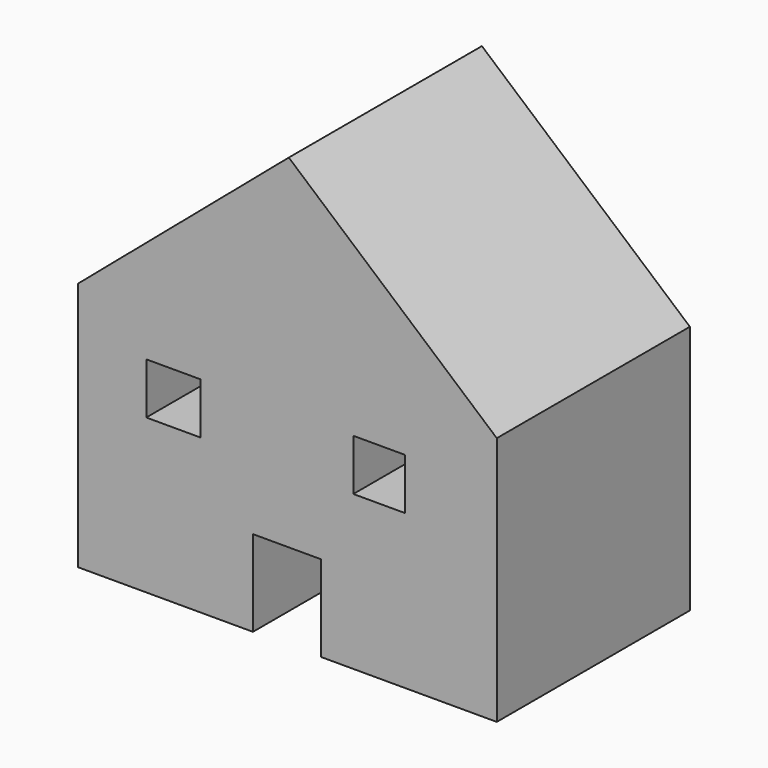
from build123d import *

# Parameters (mm, degrees)
F0_W     = 22.890553
F0_H     = 21.569945
F0_W_2   = 21.790045
F1_DEPTH = 101.6


with BuildPart() as f1:
    # F0 (on Front) → F1 (new body)
    with BuildSketch(Plane.XZ):
        Polygon((0, 105.750546), (-88.684641, 30.223833), (-88.684641, -74.921191), (-15.096841, -74.921191), (-15.096841, -38.709387), (13.51635, -38.709387), (13.51635, -74.921191), (87.544352, -74.921191), (87.544352, 30.223833), align=None)
        with Locations((-48.552263, 0.688779)):
            Rectangle(F0_W, F0_H, mode=Mode.SUBTRACT)
        with Locations((38.057661, 0.688779)):
            Rectangle(F0_W_2, F0_H, mode=Mode.SUBTRACT)
    extrude(amount=F1_DEPTH)


solid = f1.part
